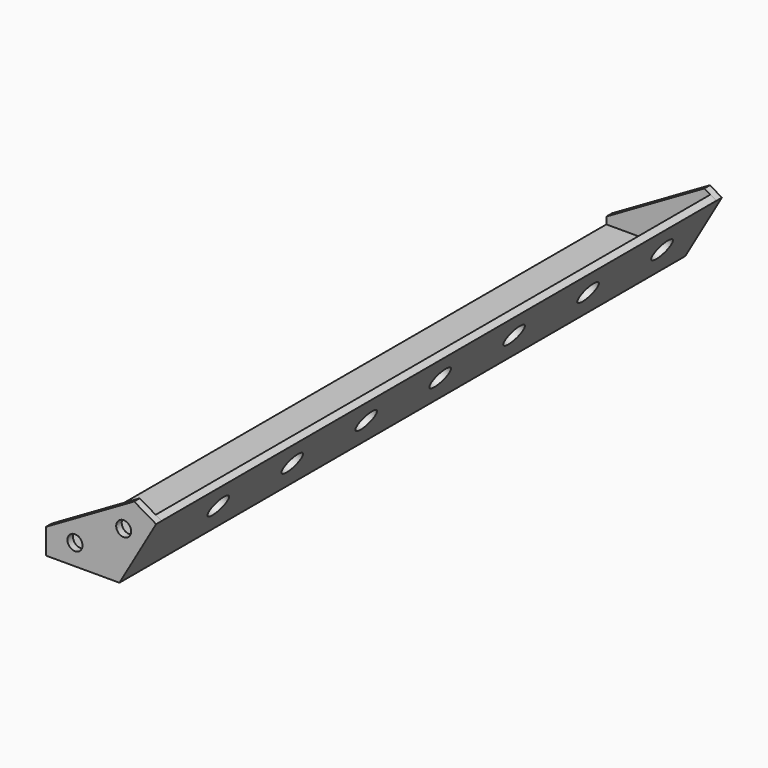
from build123d import *

# Parameters (mm, degrees)
F1_DEPTH = 600
F3_DEPTH = 6
F4_R     = 10
F5_DEPTH = 25
F7_DEPTH = 6
F8_R     = 6.5
F9_DEPTH = 25


with BuildPart() as f1:
    # F0 (on Front) → F1 (new body)
    with BuildSketch(Plane.XZ):
        Polygon((3.1633873769, -4.3856281954), (3.1633873769, -10.3856281954), (66.627488992, -10.3856281954), (98.3595397996, 44.5758960317), (93.1633873769, 47.5758960317), (63.1633873769, -4.3856281954), align=None)
    extrude(amount=F1_DEPTH)

    # F2 (on face) → F3 (join)
    with BuildSketch(Plane(origin=(0, 0, 0), x_dir=(-1, 0, 0), z_dir=(0, 1, 0))):
        Polygon((-3.1633873769, -10.3856281954), (-3.1633873769, 1.6143718046), (-87.9672349541, 50.5758960317), (-98.3595397996, 44.5758960317), (-66.627488992, -10.3856281954), align=None)
    extrude(amount=F3_DEPTH)

    # F4 (on face) → F5 (cut)
    with BuildSketch(Plane(origin=(49.271573247, 0, -28.4469560776), x_dir=(0, -1, 0), z_dir=(-0.8660254038, 0, 0.5))):
        with Locations((40, 57.7836282597)):
            Circle(F4_R)
        with Locations((120, 57.7836282597)):
            Circle(F4_R)
        with Locations((200, 57.7836282597)):
            Circle(F4_R)
        with Locations((360, 57.7836282597)):
            Circle(F4_R)
        with Locations((280, 57.7836282597)):
            Circle(F4_R)
        with Locations((520, 57.7836282597)):
            Circle(F4_R)
        with Locations((440, 57.7836282597)):
            Circle(F4_R)
    extrude(amount=-F5_DEPTH, mode=Mode.SUBTRACT)

    # F6 (on face) → F7 (join)
    with BuildSketch(Plane.XZ.offset(600)):
        Polygon((3.1633873769, 11.6143718046), (3.1633873769, -10.3856281954), (66.627488992, -10.3856281954), (98.3595397996, 44.5758960317), (79.3515058288, 55.6526574973), align=None)
    extrude(amount=F7_DEPTH)

    # F8 (on face) → F9 (cut)
    with BuildSketch(Plane.XZ.offset(606)):
        with Locations((70.307283797, 31.9879633684)):
            Circle(F8_R)
        with Locations((28.1633873769, 7.6143718046)):
            Circle(F8_R)
    extrude(amount=-F9_DEPTH, mode=Mode.SUBTRACT)


solid = f1.part
